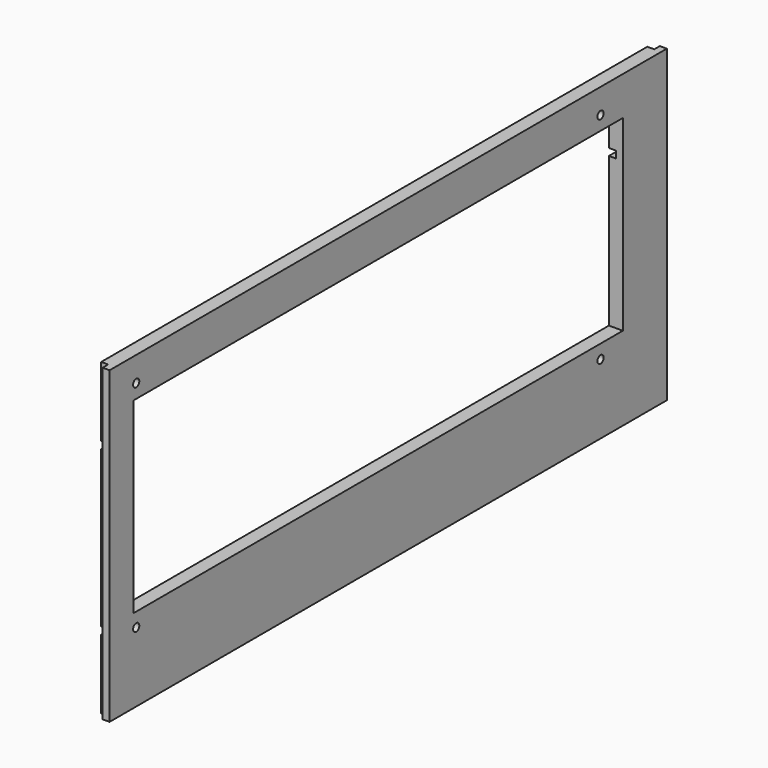
from build123d import *

# Parameters (mm, degrees)
F0_W      = 450
F0_H      = 200
F1_DEPTH  = 9
F2_W      = 4.5
F2_H      = 200
F3_DEPTH  = 4.5
F4_W      = 4.5
F4_H      = 200
F5_DEPTH  = 4.5
F6_W      = 441
F6_H      = 4.5
F7_DEPTH  = 4.5
F8_W      = 441
F8_H      = 4.5
F9_DEPTH  = 4.5
F10_W     = 395
F10_H     = 121
F11_DEPTH = 9
F12_R     = 2.5
F13_DEPTH = 9


with BuildPart() as f1:
    # F0 (on Right) → F1 (new body)
    with BuildSketch(Plane.YZ):
        Rectangle(F0_W, F0_H)
    extrude(amount=F1_DEPTH)

    # F2 (on face) → F3 (cut)
    with BuildSketch(Plane.XZ.offset(225)):
        with Locations((2.25, 0)):
            Rectangle(F2_W, F2_H)
    extrude(amount=-F3_DEPTH, mode=Mode.SUBTRACT)

    # F4 (on face) → F5 (cut)
    with BuildSketch(Plane(origin=(0, 225, 0), x_dir=(-1, 0, 0), z_dir=(0, 1, 0))):
        with Locations((-2.25, 0)):
            Rectangle(F4_W, F4_H)
    extrude(amount=-F5_DEPTH, mode=Mode.SUBTRACT)

    # F6 (on face) → F7 (cut)
    with BuildSketch(Plane(origin=(0, 0, 0), x_dir=(0, -1, 0), z_dir=(-1, 0, 0))):
        with Locations((0, 52.75)):
            Rectangle(F6_W, F6_H)
    extrude(amount=-F7_DEPTH, mode=Mode.SUBTRACT)

    # F8 (on face) → F9 (cut)
    with BuildSketch(Plane(origin=(0, 0, 0), x_dir=(0, -1, 0), z_dir=(-1, 0, 0))):
        with Locations((0, -52.75)):
            Rectangle(F8_W, F8_H)
    extrude(amount=-F9_DEPTH, mode=Mode.SUBTRACT)

    # F10 (on face) → F11 (cut, through all)
    with BuildSketch(Plane.YZ.offset(9)):
        with Locations((-8, 14.5)):
            Rectangle(F10_W, F10_H)
    extrude(amount=-F11_DEPTH, mode=Mode.SUBTRACT)

    # F12 (on face) → F13 (cut, through all)
    with BuildSketch(Plane.YZ.offset(9)):
        with Locations((-203.5, 84)):
            Circle(F12_R)
        with Locations((171.5, 84)):
            Circle(F12_R)
        with Locations((171.5, -55)):
            Circle(F12_R)
        with Locations((-203.5, -55)):
            Circle(F12_R)
    extrude(amount=-F13_DEPTH, mode=Mode.SUBTRACT)


solid = f1.part
